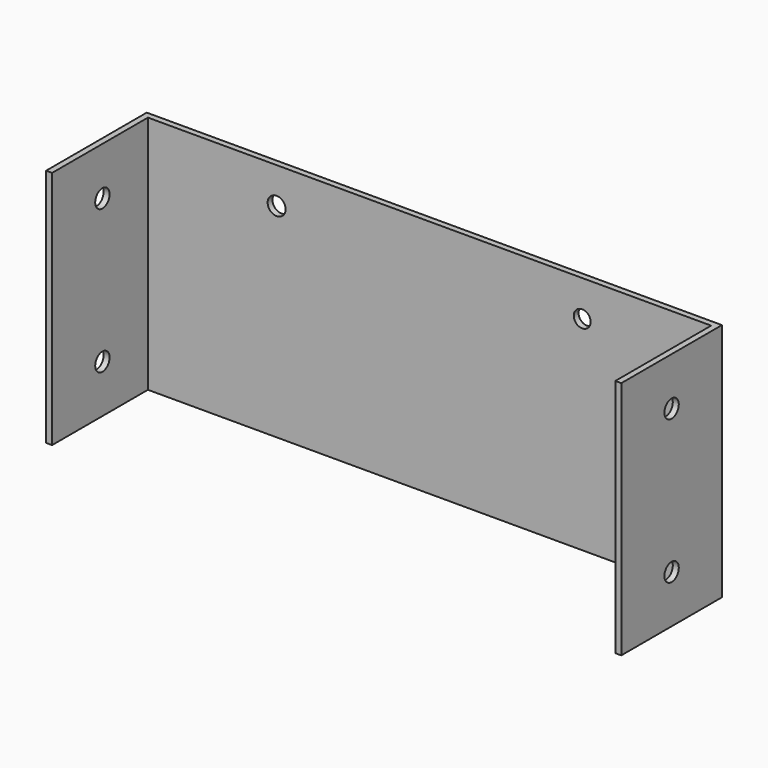
from build123d import *

# Parameters (mm, degrees)
F0_W     = 304.8
F0_H     = 127
F1_DEPTH = 3.175
F2_W     = 3.175
F2_H     = 127
F3_DEPTH = 63.5
F4_R     = 4.7625
F4_R_2   = 4.47244
F5_DEPTH = 25.4
F6_R     = 4.7625
F7_DEPTH = 304.8


with BuildPart() as f1:
    # F0 (on Front) → F1 (new body)
    with BuildSketch(Plane.XZ):
        with Locations((-13.010172, -3.574955)):
            Rectangle(F0_W, F0_H)
    extrude(amount=F1_DEPTH)

    # F2 (on face) → F3 (join)
    with BuildSketch(Plane.XZ.offset(3.175)):
        with Locations((-163.822672, -3.574955)):
            Rectangle(F2_W, F2_H)
        with Locations((137.802328, -3.574955)):
            Rectangle(F2_W, F2_H)
    extrude(amount=F3_DEPTH)

    # F4 (on face) → F5 (cut)
    with BuildSketch(Plane.XZ.offset(3.175)):
        with Locations((-94.036172, 40.875045)):
            Circle(F4_R)
        with Locations((67.888828, 40.875045)):
            Circle(F4_R_2)
    extrude(amount=-F5_DEPTH, mode=Mode.SUBTRACT)

    # F6 (on face) → F7 (cut)
    with BuildSketch(Plane.YZ.offset(139.389828)):
        with Locations((-33.3375, 34.525045)):
            Circle(F6_R)
        with Locations((-33.3375, -41.674955)):
            Circle(F6_R)
    extrude(amount=-F7_DEPTH, mode=Mode.SUBTRACT)


solid = f1.part
